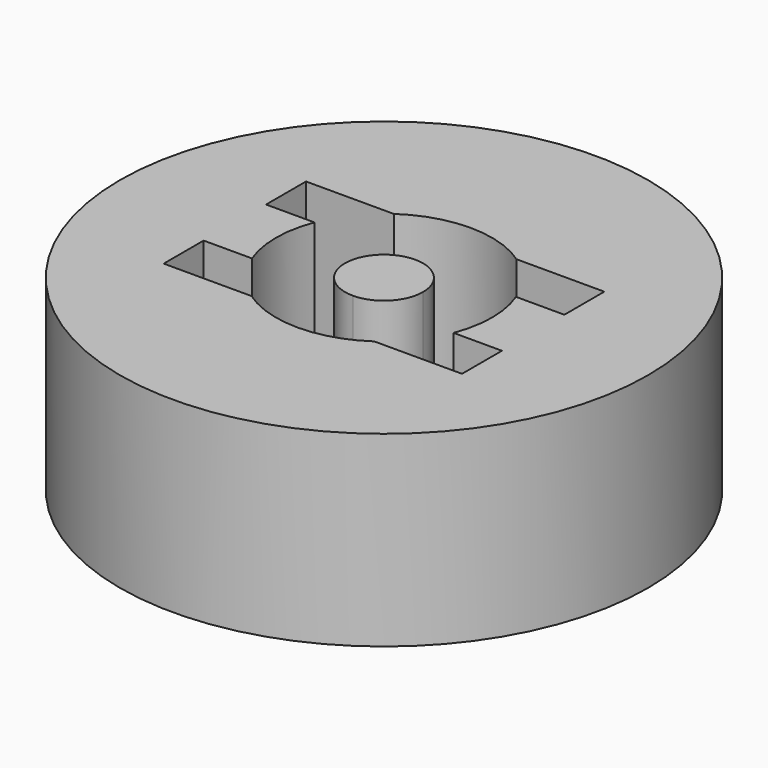
from build123d import *

# Parameters (mm, degrees)
F0_R     = 16.925
F1_DEPTH = 12
F2_DEPTH = 5
F3_DEPTH = 12


with BuildPart() as f1:
    # F0 (on Top) → F1 (new body)
    with BuildSketch(Plane.XY):
        Circle(F0_R)
        with BuildLine():
            ThreePointArc((-3.932636, 5.7), (0, 6.925), (3.932636, 5.7))
            Line((3.932636, 5.7), (9.557989, 5.7))
            Line((9.557989, 5.7), (9.557989, 2.5))
            Line((9.557989, 2.5), (6.457989, 2.5))
            ThreePointArc((6.457989, 2.5), (6.925, 0), (6.457989, -2.5))
            Line((6.457989, -2.5), (9.557989, -2.5))
            Line((9.557989, -2.5), (9.557989, -5.7))
            Line((9.557989, -5.7), (3.932636, -5.7))
            ThreePointArc((3.932636, -5.7), (0, -6.925), (-3.932636, -5.7))
            Line((-3.932636, -5.7), (-9.557989, -5.7))
            Line((-9.557989, -5.7), (-9.557989, -2.5))
            Line((-9.557989, -2.5), (-6.457989, -2.5))
            ThreePointArc((-6.457989, -2.5), (-6.925, 0), (-6.457989, 2.5))
            Line((-6.457989, 2.5), (-9.557989, 2.5))
            Line((-9.557989, 2.5), (-9.557989, 5.7))
            Line((-9.557989, 5.7), (-3.932636, 5.7))
        make_face(mode=Mode.SUBTRACT)
    extrude(amount=F1_DEPTH)


with BuildPart() as f2:
    # F0 (on Top) → F2 (new body)
    with BuildSketch(Plane.XY):
        with BuildLine():
            ThreePointArc((6.457989, -2.5), (6.925, 0), (6.457989, 2.5))
            Line((6.457989, 2.5), (0, 2.5))
            ThreePointArc((0, 2.5), (1.767767, 1.767767), (2.5, 0))
            ThreePointArc((2.5, 0), (1.767767, -1.767767), (0, -2.5))
            Line((0, -2.5), (6.457989, -2.5))
        make_face()
        with BuildLine():
            Line((0, 2.5), (-6.457989, 2.5))
            ThreePointArc((-6.457989, 2.5), (-6.925, 0), (-6.457989, -2.5))
            Line((-6.457989, -2.5), (0, -2.5))
            ThreePointArc((0, -2.5), (-2.5, 0), (0, 2.5))
        make_face()
    extrude(amount=F2_DEPTH)


with BuildPart() as f3:
    # F0 (on Top) → F3 (new body)
    with BuildSketch(Plane.XY):
        with BuildLine():
            ThreePointArc((2.5, 0), (1.767767, 1.767767), (0, 2.5))
            ThreePointArc((0, 2.5), (-2.5, 0), (0, -2.5))
            ThreePointArc((0, -2.5), (1.767767, -1.767767), (2.5, 0))
        make_face()
    extrude(amount=F3_DEPTH)


solid = Compound([f1.part, f2.part, f3.part])
